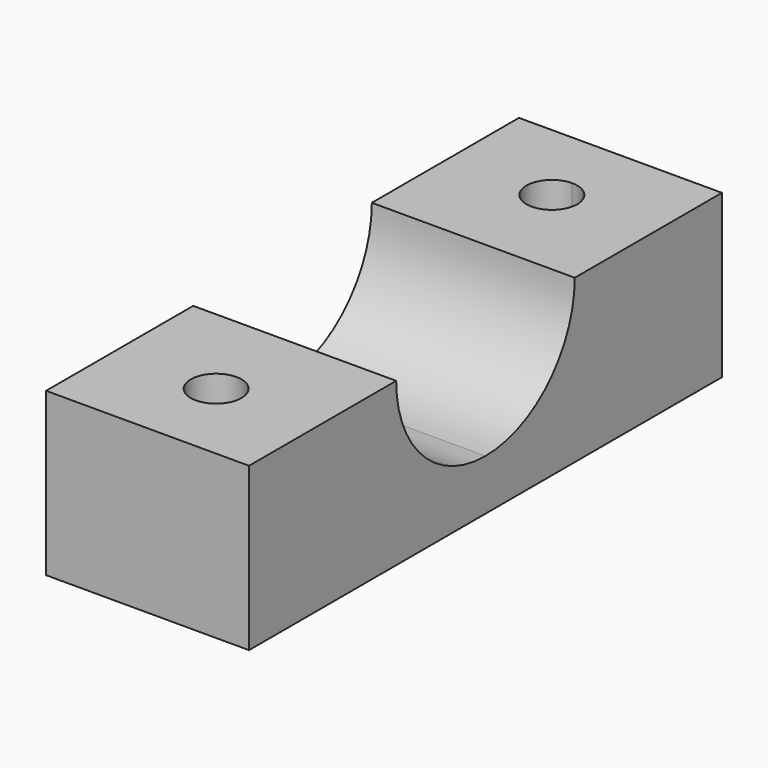
from build123d import *

# Parameters (mm, degrees)
F1_DEPTH = 20
F4_DEPTH = 25


with BuildPart() as f1:
    # F0 (on Right) → F1 (new body)
    with BuildSketch(Plane.YZ):
        with BuildLine():
            ThreePointArc((0, -11), (-7.7781745931, -7.7781745931), (-11, 0))
            Line((-11, 0), (-29.125, 0))
            Line((-29.125, 0), (-29.125, -16))
            Line((-29.125, -16), (0, -16))
            Line((0, -16), (0, -11))
        make_face()
    extrude(amount=-F1_DEPTH)

    # F3 (on offset) → F4 (cut)
    with BuildSketch(Plane.XY):
        with BuildLine():
            ThreePointArc((-10, -23.1794859892), (-8.232233047, -22.4472529422), (-7.5, -20.6794859892))
            ThreePointArc((-7.5, -20.6794859892), (-11.767766953, -18.9117190362), (-10, -23.1794859892))
        make_face()
    extrude(amount=-F4_DEPTH, mode=Mode.SUBTRACT)

    # F5: F1 across face


with BuildPart() as f1_1:
    add(f1.part)
    add(f1.part.mirror(Plane(origin=(-10, 0, -13.5), x_dir=(-1, 0, 0), z_dir=(0, 1, 0))))


solid = f1_1.part
